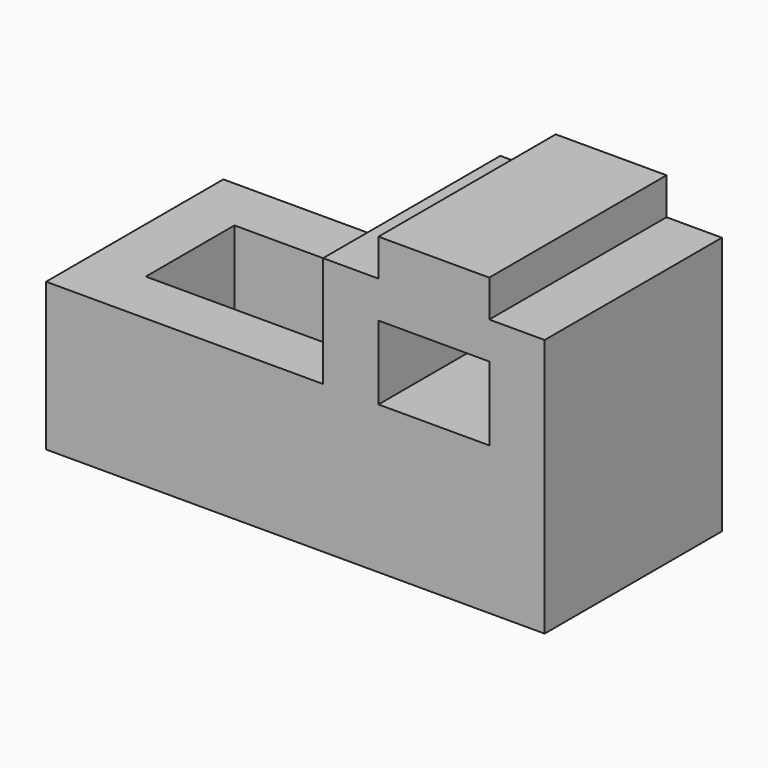
from build123d import *

# Parameters (mm, degrees)
F0_W      = 2743.2
F0_H      = 1625.6
F1_DEPTH  = 1219.2
F2_W      = 1524
F2_H      = 812.8
F3_DEPTH  = 1219.2
F4_W      = 304.8
F4_H      = 203.2
F5_DEPTH  = 1219.2
F6_W      = 304.8
F6_H      = 203.2
F7_DEPTH  = 1219.2
F8_W      = 609.6
F8_H      = 406.4
F9_DEPTH  = 1219.2
F10_W     = 1219.2
F10_H     = 609.6
F11_DEPTH = 609.6


with BuildPart() as f1:
    # F0 (on Front) → F1 (new body)
    with BuildSketch(Plane.XZ):
        with Locations((1371.6, 812.8)):
            Rectangle(F0_W, F0_H)
    extrude(amount=F1_DEPTH)

    # F2 (on face) → F3 (cut)
    with BuildSketch(Plane.XZ.offset(1219.2)):
        with Locations((762, 1219.2)):
            Rectangle(F2_W, F2_H)
    extrude(amount=-F3_DEPTH, mode=Mode.SUBTRACT)

    # F4 (on face) → F5 (cut)
    with BuildSketch(Plane.XZ.offset(1219.2)):
        with Locations((1676.4, 1524)):
            Rectangle(F4_W, F4_H)
    extrude(amount=-F5_DEPTH, mode=Mode.SUBTRACT)

    # F6 (on face) → F7 (cut)
    with BuildSketch(Plane.XZ.offset(1219.2)):
        with Locations((2590.8, 1524)):
            Rectangle(F6_W, F6_H)
    extrude(amount=-F7_DEPTH, mode=Mode.SUBTRACT)

    # F8 (on face) → F9 (cut)
    with BuildSketch(Plane.XZ.offset(1219.2)):
        with Locations((2133.6, 1016)):
            Rectangle(F8_W, F8_H)
    extrude(amount=-F9_DEPTH, mode=Mode.SUBTRACT)

    # F10 (on face) → F11 (cut)
    with BuildSketch(Plane.XY.offset(812.8)):
        with Locations((914.4, -609.6)):
            Rectangle(F10_W, F10_H)
    extrude(amount=-F11_DEPTH, mode=Mode.SUBTRACT)


solid = f1.part
